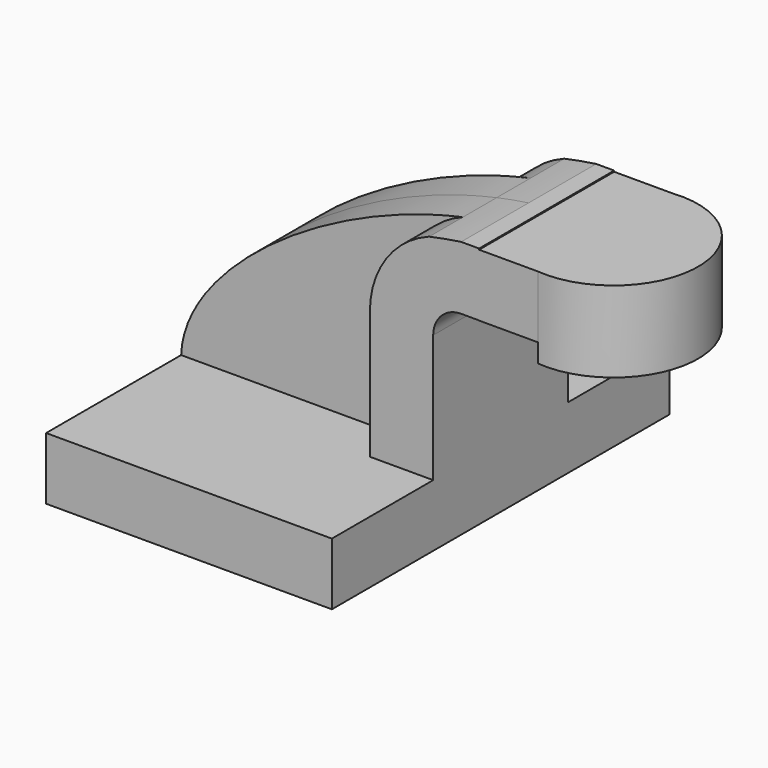
from build123d import *

# Parameters (mm, degrees)
F1_DEPTH = 63.5
F2_DEPTH = 25.4
F3_DEPTH = 12.7
F4_W     = 19.1736370325
F4_H     = 18.7656953931
F5_DEPTH = 25.4
F8_DEPTH = 24.384


with BuildPart() as f1:
    # F0 (on Front) → F1 (new body, symmetric)
    with BuildSketch(Plane.XZ):
        Polygon((43.002218008, -9.3683367595), (43.002218008, 9.3683367595), (23.952218008, 9.3683367595), (-43.002218008, 9.3683367595), (-43.002218008, -9.3683367595), align=None)
    extrude(amount=F1_DEPTH, both=True)

    # F0 (on Front) → F2 (join, symmetric)
    with BuildSketch(Plane.XZ):
        with BuildLine():
            Line((23.952218008, 9.3683367595), (43.002218008, 9.3683367595))
            Line((43.002218008, 9.3683367595), (43.002218008, 47.7631762624))
            ThreePointArc((43.002218008, 47.7631762624), (45.4664077762, 53.712256621), (51.4154881348, 56.1764463891))
            Line((51.4154881348, 56.1764463891), (56.8243600428, 56.1764463891))
            Line((56.8243600428, 56.1764463891), (56.8243600428, 75.2264463891))
            Line((56.8243600428, 75.2264463891), (51.4154881348, 75.2264463891))
            add(Edge.make_bspline(
                [(41.8041992357, 73.4897059886), (45.002733463, 74.1877892991), (48.2117770705, 74.7703432953), (51.4154881348, 75.2264463891)],
                knots=[107.1334915157, 107.1334915157, 107.1334915157, 107.1334915157, 115.1173046821, 115.1173046821, 115.1173046821, 115.1173046821], degree=3))
            ThreePointArc((41.8041992357, 73.4897059886), (28.8523696739, 63.4200243288), (23.952218008, 47.7631762624))
            Line((23.952218008, 47.7631762624), (23.952218008, 9.3683367595))
        make_face()
    extrude(amount=F2_DEPTH, both=True)

    # F0 (on Front) → F3 (join, symmetric)
    with BuildSketch(Plane.XZ):
        with BuildLine():
            Line((-43.002218008, 9.3683367595), (23.952218008, 9.3683367595))
            Line((23.952218008, 9.3683367595), (23.952218008, 47.7631762624))
            ThreePointArc((23.952218008, 47.7631762624), (28.8523696739, 63.4200243288), (41.8041992357, 73.4897059886))
            add(Edge.make_bspline(
                [(-43.002218008, 9.3683367595), (-42.1446492068, 33.9519638821), (-1.1164118011, 64.1222394823), (41.8041992357, 73.4897059886)],
                knots=[0, 0, 0, 0, 107.1334915157, 107.1334915157, 107.1334915157, 107.1334915157], degree=3))
        make_face()
    extrude(amount=F3_DEPTH, both=True)

    # F4 (on Front) → F5 (join, symmetric)
    with BuildSketch(Plane.XZ):
        with Locations((66.3682073355, 65.5188672245)):
            Rectangle(F4_W, F4_H)
    extrude(amount=F5_DEPTH, both=True)

    # F7 (on face) → F8 (join)
    with BuildSketch(Plane.XY.offset(74.901714921)):
        with BuildLine():
            ThreePointArc((74.5427201599, -25.4), (94.0875248733, -18.8547135488), (102.4145857599, 0))
            ThreePointArc((102.4145857599, 0), (94.0875248733, 18.8547135488), (74.5427201599, 25.4))
            Line((74.5427201599, 25.4), (75.9550258517, 25.4))
            Line((75.9550258517, 25.4), (75.9550258517, -25.4))
            Line((75.9550258517, -25.4), (74.5427201599, -25.4))
        make_face()
    extrude(amount=-F8_DEPTH)


solid = f1.part
